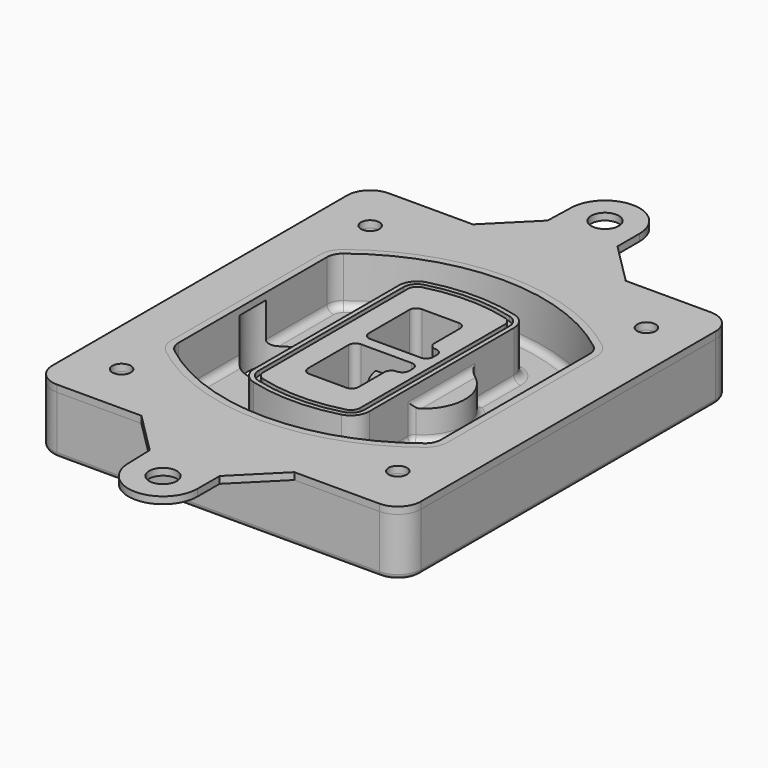
from build123d import *

# Parameters (mm, degrees)
F0_R      = 4
F1_DEPTH  = 25
F2_DEPTH  = 3
F3_DEPTH  = 18
F5_DEPTH  = 21
F6_DEPTH  = 2
F8_DEPTH  = 20
F9_DEPTH  = 16
F10_DEPTH = 25
F7_R      = 6
F7_R_2    = 4
F11_DEPTH = 6
F13_DEPTH = 9
F14_R     = 3
F15_R     = 2
F16_R     = 6
F16_R_2   = 4
F17_DEPTH = 3


with BuildPart() as f1:
    # F0 (on Top) → F1 (new body)
    with BuildSketch(Plane.XY):
        with BuildLine():
            ThreePointArc((-80, -80), (-77.0710678119, -87.0710678119), (-70, -90))
            Line((-70, -90), (70, -90))
            ThreePointArc((70, -90), (77.0710678119, -87.0710678119), (80, -80))
            Line((80, -80), (80, 80))
            ThreePointArc((80, 80), (77.0710678119, 87.0710678119), (70, 90))
            Line((70, 90), (-70, 90))
            ThreePointArc((-70, 90), (-77.0710678119, 87.0710678119), (-80, 80))
            Line((-80, 80), (-80, -80))
        make_face()
        with Locations((-60, -67.5)):
            Circle(F0_R, mode=Mode.SUBTRACT)
        with Locations((60, -67.5)):
            Circle(F0_R, mode=Mode.SUBTRACT)
        with Locations((-60, 67.5)):
            Circle(F0_R, mode=Mode.SUBTRACT)
        with BuildLine():
            ThreePointArc((-64, 40.2934422872), (-62.5820384798, 46.4328484224), (-58.6153846154, 51.3286200352))
            ThreePointArc((-58.6153846154, 51.3286200352), (0, 71.5), (58.6153846154, 51.3286200352))
            ThreePointArc((58.6153846154, 51.3286200352), (62.5820384798, 46.4328484224), (64, 40.2934422872))
            Line((64, 40.2934422872), (64, -40.2934422872))
            ThreePointArc((64, -40.2934422872), (62.5820384798, -46.4328484224), (58.6153846154, -51.3286200352))
            ThreePointArc((58.6153846154, -51.3286200352), (0, -71.5), (-58.6153846154, -51.3286200352))
            ThreePointArc((-58.6153846154, -51.3286200352), (-62.5820384798, -46.4328484224), (-64, -40.2934422872))
            Line((-64, -40.2934422872), (-64, 40.2934422872))
        make_face(mode=Mode.SUBTRACT)
        with Locations((60, 67.5)):
            Circle(F0_R, mode=Mode.SUBTRACT)
        with BuildLine():
            ThreePointArc((58.6153846154, 51.3286200352), (0, 71.5), (-58.6153846154, 51.3286200352))
            ThreePointArc((-58.6153846154, 51.3286200352), (-62.5820384798, 46.4328484224), (-64, 40.2934422872))
            Line((-64, 40.2934422872), (-64, -40.2934422872))
            ThreePointArc((-64, -40.2934422872), (-62.5820384798, -46.4328484224), (-58.6153846154, -51.3286200352))
            ThreePointArc((-58.6153846154, -51.3286200352), (0, -71.5), (58.6153846154, -51.3286200352))
            ThreePointArc((58.6153846154, -51.3286200352), (62.5820384798, -46.4328484224), (64, -40.2934422872))
            Line((64, -40.2934422872), (64, 40.2934422872))
            ThreePointArc((64, 40.2934422872), (62.5820384798, 46.4328484224), (58.6153846154, 51.3286200352))
        make_face()
        with BuildLine():
            Line((-60, -40.2934422872), (-60, 40.2934422872))
            ThreePointArc((-60, 40.2934422872), (-58.9871703427, 44.6787323838), (-56.1538461538, 48.1757121072))
            ThreePointArc((-56.1538461538, 48.1757121072), (0, 67.5), (56.1538461538, 48.1757121072))
            ThreePointArc((56.1538461538, 48.1757121072), (58.9871703427, 44.6787323838), (60, 40.2934422872))
            Line((60, 40.2934422872), (60, -40.2934422872))
            ThreePointArc((60, -40.2934422872), (58.9871703427, -44.6787323838), (56.1538461538, -48.1757121072))
            ThreePointArc((56.1538461538, -48.1757121072), (0, -67.5), (-56.1538461538, -48.1757121072))
            ThreePointArc((-56.1538461538, -48.1757121072), (-58.9871703427, -44.6787323838), (-60, -40.2934422872))
        make_face(mode=Mode.SUBTRACT)
        with BuildLine():
            ThreePointArc((-56.1538461538, 48.1757121072), (-58.9871703427, 44.6787323838), (-60, 40.2934422872))
            Line((-60, 40.2934422872), (-60, -40.2934422872))
            ThreePointArc((-60, -40.2934422872), (-58.9871703427, -44.6787323838), (-56.1538461538, -48.1757121072))
            ThreePointArc((-56.1538461538, -48.1757121072), (0, -67.5), (56.1538461538, -48.1757121072))
            ThreePointArc((56.1538461538, -48.1757121072), (58.9871703427, -44.6787323838), (60, -40.2934422872))
            Line((60, -40.2934422872), (60, 40.2934422872))
            ThreePointArc((60, 40.2934422872), (58.9871703427, 44.6787323838), (56.1538461538, 48.1757121072))
            ThreePointArc((56.1538461538, 48.1757121072), (0, 67.5), (-56.1538461538, 48.1757121072))
        make_face()
        with BuildLine():
            ThreePointArc((54.3076923077, 45.8110311612), (56.2910192399, 43.3631453548), (57, 40.2934422872))
            Line((57, 40.2934422872), (57, -40.2934422872))
            ThreePointArc((57, -40.2934422872), (56.2910192399, -43.3631453548), (54.3076923077, -45.8110311612))
            ThreePointArc((54.3076923077, -45.8110311612), (0, -64.5), (-54.3076923077, -45.8110311612))
            ThreePointArc((-54.3076923077, -45.8110311612), (-56.2910192399, -43.3631453548), (-57, -40.2934422872))
            Line((-57, -40.2934422872), (-57, 40.2934422872))
            ThreePointArc((-57, 40.2934422872), (-56.2910192399, 43.3631453548), (-54.3076923077, 45.8110311612))
            ThreePointArc((-54.3076923077, 45.8110311612), (0, 64.5), (54.3076923077, 45.8110311612))
        make_face(mode=Mode.SUBTRACT)
        with BuildLine():
            Line((57, -40.2934422872), (57, 40.2934422872))
            ThreePointArc((57, 40.2934422872), (56.2910192399, 43.3631453548), (54.3076923077, 45.8110311612))
            ThreePointArc((54.3076923077, 45.8110311612), (0, 64.5), (-54.3076923077, 45.8110311612))
            ThreePointArc((-54.3076923077, 45.8110311612), (-56.2910192399, 43.3631453548), (-57, 40.2934422872))
            Line((-57, 40.2934422872), (-57, -40.2934422872))
            ThreePointArc((-57, -40.2934422872), (-56.2910192399, -43.3631453548), (-54.3076923077, -45.8110311612))
            ThreePointArc((-54.3076923077, -45.8110311612), (0, -64.5), (54.3076923077, -45.8110311612))
            ThreePointArc((54.3076923077, -45.8110311612), (56.2910192399, -43.3631453548), (57, -40.2934422872))
        make_face()
    extrude(amount=-F1_DEPTH)

    # F0 (on Top) → F2 (join)
    with BuildSketch(Plane.XY):
        with BuildLine():
            ThreePointArc((-56.1538461538, 48.1757121072), (-58.9871703427, 44.6787323838), (-60, 40.2934422872))
            Line((-60, 40.2934422872), (-60, -40.2934422872))
            ThreePointArc((-60, -40.2934422872), (-58.9871703427, -44.6787323838), (-56.1538461538, -48.1757121072))
            ThreePointArc((-56.1538461538, -48.1757121072), (0, -67.5), (56.1538461538, -48.1757121072))
            ThreePointArc((56.1538461538, -48.1757121072), (58.9871703427, -44.6787323838), (60, -40.2934422872))
            Line((60, -40.2934422872), (60, 40.2934422872))
            ThreePointArc((60, 40.2934422872), (58.9871703427, 44.6787323838), (56.1538461538, 48.1757121072))
            ThreePointArc((56.1538461538, 48.1757121072), (0, 67.5), (-56.1538461538, 48.1757121072))
        make_face()
        with BuildLine():
            ThreePointArc((54.3076923077, 45.8110311612), (56.2910192399, 43.3631453548), (57, 40.2934422872))
            Line((57, 40.2934422872), (57, -40.2934422872))
            ThreePointArc((57, -40.2934422872), (56.2910192399, -43.3631453548), (54.3076923077, -45.8110311612))
            ThreePointArc((54.3076923077, -45.8110311612), (0, -64.5), (-54.3076923077, -45.8110311612))
            ThreePointArc((-54.3076923077, -45.8110311612), (-56.2910192399, -43.3631453548), (-57, -40.2934422872))
            Line((-57, -40.2934422872), (-57, 40.2934422872))
            ThreePointArc((-57, 40.2934422872), (-56.2910192399, 43.3631453548), (-54.3076923077, 45.8110311612))
            ThreePointArc((-54.3076923077, 45.8110311612), (0, 64.5), (54.3076923077, 45.8110311612))
        make_face(mode=Mode.SUBTRACT)
    extrude(amount=F2_DEPTH)

    # F0 (on Top) → F3 (cut)
    with BuildSketch(Plane.XY):
        with BuildLine():
            Line((57, -40.2934422872), (57, 40.2934422872))
            ThreePointArc((57, 40.2934422872), (56.2910192399, 43.3631453548), (54.3076923077, 45.8110311612))
            ThreePointArc((54.3076923077, 45.8110311612), (0, 64.5), (-54.3076923077, 45.8110311612))
            ThreePointArc((-54.3076923077, 45.8110311612), (-56.2910192399, 43.3631453548), (-57, 40.2934422872))
            Line((-57, 40.2934422872), (-57, -40.2934422872))
            ThreePointArc((-57, -40.2934422872), (-56.2910192399, -43.3631453548), (-54.3076923077, -45.8110311612))
            ThreePointArc((-54.3076923077, -45.8110311612), (0, -64.5), (54.3076923077, -45.8110311612))
            ThreePointArc((54.3076923077, -45.8110311612), (56.2910192399, -43.3631453548), (57, -40.2934422872))
        make_face()
    extrude(amount=-F3_DEPTH, mode=Mode.SUBTRACT)

    # F4 (on face) → F5 (join, through all)
    with BuildSketch(Plane.XY.offset(3)):
        with BuildLine():
            ThreePointArc((-25, -39.2465276821), (-23.3511545998, -44.1109737193), (-19.0842911877, -46.9702398883))
            ThreePointArc((-19.0842911877, -46.9702398883), (0, -49.5), (19.0842911877, -46.9702398883))
            ThreePointArc((19.0842911877, -46.9702398883), (23.3511545998, -44.1109737193), (25, -39.2465276821))
            Line((25, -39.2465276821), (25, 39.2465276821))
            ThreePointArc((25, 39.2465276821), (23.3511545998, 44.1109737193), (19.0842911877, 46.9702398883))
            ThreePointArc((19.0842911877, 46.9702398883), (0, 49.5), (-19.0842911877, 46.9702398883))
            ThreePointArc((-19.0842911877, 46.9702398883), (-23.3511545998, 44.1109737193), (-25, 39.2465276821))
            Line((-25, 39.2465276821), (-25, -39.2465276821))
        make_face()
        with BuildLine():
            ThreePointArc((18.5632183908, 45.0393118368), (21.7633659499, 42.89486221), (23, 39.2465276821))
            Line((23, 39.2465276821), (23, -39.2465276821))
            ThreePointArc((23, -39.2465276821), (21.7633659499, -42.89486221), (18.5632183908, -45.0393118368))
            ThreePointArc((18.5632183908, -45.0393118368), (0, -47.5), (-18.5632183908, -45.0393118368))
            ThreePointArc((-18.5632183908, -45.0393118368), (-21.7633659499, -42.89486221), (-23, -39.2465276821))
            Line((-23, -39.2465276821), (-23, 39.2465276821))
            ThreePointArc((-23, 39.2465276821), (-21.7633659499, 42.89486221), (-18.5632183908, 45.0393118368))
            ThreePointArc((-18.5632183908, 45.0393118368), (0, 47.5), (18.5632183908, 45.0393118368))
        make_face(mode=Mode.SUBTRACT)
        with BuildLine():
            Line((23, -39.2465276821), (23, 39.2465276821))
            ThreePointArc((23, 39.2465276821), (21.7633659499, 42.89486221), (18.5632183908, 45.0393118368))
            ThreePointArc((18.5632183908, 45.0393118368), (0, 47.5), (-18.5632183908, 45.0393118368))
            ThreePointArc((-18.5632183908, 45.0393118368), (-21.7633659499, 42.89486221), (-23, 39.2465276821))
            Line((-23, 39.2465276821), (-23, -39.2465276821))
            ThreePointArc((-23, -39.2465276821), (-21.7633659499, -42.89486221), (-18.5632183908, -45.0393118368))
            ThreePointArc((-18.5632183908, -45.0393118368), (0, -47.5), (18.5632183908, -45.0393118368))
            ThreePointArc((18.5632183908, -45.0393118368), (21.7633659499, -42.89486221), (23, -39.2465276821))
        make_face()
        with BuildLine():
            ThreePointArc((18.0421455939, 43.1083837852), (20.1755772999, 41.6787507007), (21, 39.2465276821))
            Line((21, 39.2465276821), (21, -39.2465276821))
            ThreePointArc((21, -39.2465276821), (20.1755772999, -41.6787507007), (18.0421455939, -43.1083837852))
            ThreePointArc((18.0421455939, -43.1083837852), (0, -45.5), (-18.0421455939, -43.1083837852))
            ThreePointArc((-18.0421455939, -43.1083837852), (-20.1755772999, -41.6787507007), (-21, -39.2465276821))
            Line((-21, -39.2465276821), (-21, 39.2465276821))
            ThreePointArc((-21, 39.2465276821), (-20.1755772999, 41.6787507007), (-18.0421455939, 43.1083837852))
            ThreePointArc((-18.0421455939, 43.1083837852), (0, 45.5), (18.0421455939, 43.1083837852))
        make_face(mode=Mode.SUBTRACT)
        with BuildLine():
            Line((21, -39.2465276821), (21, 39.2465276821))
            ThreePointArc((21, 39.2465276821), (20.1755772999, 41.6787507007), (18.0421455939, 43.1083837852))
            ThreePointArc((18.0421455939, 43.1083837852), (0, 45.5), (-18.0421455939, 43.1083837852))
            ThreePointArc((-18.0421455939, 43.1083837852), (-20.1755772999, 41.6787507007), (-21, 39.2465276821))
            Line((-21, 39.2465276821), (-21, -39.2465276821))
            ThreePointArc((-21, -39.2465276821), (-20.1755772999, -41.6787507007), (-18.0421455939, -43.1083837852))
            ThreePointArc((-18.0421455939, -43.1083837852), (0, -45.5), (18.0421455939, -43.1083837852))
            ThreePointArc((18.0421455939, -43.1083837852), (20.1755772999, -41.6787507007), (21, -39.2465276821))
        make_face()
        with BuildLine():
            Line((-8, -2.5), (14, -2.5))
            ThreePointArc((14, -2.5), (16.1213203436, -3.3786796564), (17, -5.5))
            Line((17, -5.5), (17, -7.5))
            ThreePointArc((17, -7.5), (16.1213203436, -9.6213203436), (14, -10.5))
            ThreePointArc((14, -10.5), (11.8786796564, -11.3786796564), (11, -13.5))
            Line((11, -13.5), (11, -27.5))
            ThreePointArc((11, -27.5), (10.1213203436, -29.6213203436), (8, -30.5))
            Line((8, -30.5), (-8, -30.5))
            ThreePointArc((-8, -30.5), (-10.1213203436, -29.6213203436), (-11, -27.5))
            Line((-11, -27.5), (-11, -5.5))
            ThreePointArc((-11, -5.5), (-10.1213203436, -3.3786796564), (-8, -2.5))
        make_face(mode=Mode.SUBTRACT)
        with BuildLine():
            ThreePointArc((-8, 2.5), (-10.1213203436, 3.3786796564), (-11, 5.5))
            Line((-11, 5.5), (-11, 27.5))
            ThreePointArc((-11, 27.5), (-10.1213203436, 29.6213203436), (-8, 30.5))
            Line((-8, 30.5), (8, 30.5))
            ThreePointArc((8, 30.5), (10.1213203436, 29.6213203436), (11, 27.5))
            Line((11, 27.5), (11, 13.5))
            ThreePointArc((11, 13.5), (11.8786796564, 11.3786796564), (14, 10.5))
            ThreePointArc((14, 10.5), (16.1213203436, 9.6213203436), (17, 7.5))
            Line((17, 7.5), (17, 5.5))
            ThreePointArc((17, 5.5), (16.1213203436, 3.3786796564), (14, 2.5))
            Line((14, 2.5), (-8, 2.5))
        make_face(mode=Mode.SUBTRACT)
    extrude(amount=-F5_DEPTH)

    # F4 (on face) → F6 (cut)
    with BuildSketch(Plane.XY.offset(3)):
        with BuildLine():
            Line((23, -39.2465276821), (23, 39.2465276821))
            ThreePointArc((23, 39.2465276821), (21.7633659499, 42.89486221), (18.5632183908, 45.0393118368))
            ThreePointArc((18.5632183908, 45.0393118368), (0, 47.5), (-18.5632183908, 45.0393118368))
            ThreePointArc((-18.5632183908, 45.0393118368), (-21.7633659499, 42.89486221), (-23, 39.2465276821))
            Line((-23, 39.2465276821), (-23, -39.2465276821))
            ThreePointArc((-23, -39.2465276821), (-21.7633659499, -42.89486221), (-18.5632183908, -45.0393118368))
            ThreePointArc((-18.5632183908, -45.0393118368), (0, -47.5), (18.5632183908, -45.0393118368))
            ThreePointArc((18.5632183908, -45.0393118368), (21.7633659499, -42.89486221), (23, -39.2465276821))
        make_face()
        with BuildLine():
            ThreePointArc((18.0421455939, 43.1083837852), (20.1755772999, 41.6787507007), (21, 39.2465276821))
            Line((21, 39.2465276821), (21, -39.2465276821))
            ThreePointArc((21, -39.2465276821), (20.1755772999, -41.6787507007), (18.0421455939, -43.1083837852))
            ThreePointArc((18.0421455939, -43.1083837852), (0, -45.5), (-18.0421455939, -43.1083837852))
            ThreePointArc((-18.0421455939, -43.1083837852), (-20.1755772999, -41.6787507007), (-21, -39.2465276821))
            Line((-21, -39.2465276821), (-21, 39.2465276821))
            ThreePointArc((-21, 39.2465276821), (-20.1755772999, 41.6787507007), (-18.0421455939, 43.1083837852))
            ThreePointArc((-18.0421455939, 43.1083837852), (0, 45.5), (18.0421455939, 43.1083837852))
        make_face(mode=Mode.SUBTRACT)
    extrude(amount=-F6_DEPTH, mode=Mode.SUBTRACT)

    # F7 (on face) → F8 (join)
    with BuildSketch(Plane(origin=(0, 0, -25), x_dir=(1, 0, 0), z_dir=(0, 0, -1))):
        with BuildLine():
            ThreePointArc((3.28842436, 0), (16.7567035675, 13.4682792075), (30.224982775, 0))
            Line((30.224982775, 0), (35.224982775, 0))
            ThreePointArc((35.224982775, 0), (16.7567035675, 18.4682792075), (-1.71157564, 0))
            Line((-1.71157564, 0), (3.28842436, 0))
        make_face()
        with BuildLine():
            Line((3.28842436, 0), (30.224982775, 0))
            ThreePointArc((30.224982775, 0), (16.7567035675, 13.4682792075), (3.28842436, 0))
        make_face()
        with BuildLine():
            ThreePointArc((3.28842436, 0), (16.7567035675, -13.4682792075), (30.224982775, 0))
            Line((30.224982775, 0), (3.28842436, 0))
        make_face()
        with BuildLine():
            Line((35.224982775, 0), (30.224982775, 0))
            ThreePointArc((30.224982775, 0), (16.7567035675, -13.4682792075), (3.28842436, 0))
            Line((3.28842436, 0), (-1.71157564, 0))
            ThreePointArc((-1.71157564, 0), (16.7567035675, -18.4682792075), (35.224982775, 0))
        make_face()
    extrude(amount=-F8_DEPTH)

    # F7 (on face) → F9 (cut)
    with BuildSketch(Plane(origin=(0, 0, -25), x_dir=(1, 0, 0), z_dir=(0, 0, -1))):
        with BuildLine():
            Line((3.28842436, 0), (30.224982775, 0))
            ThreePointArc((30.224982775, 0), (16.7567035675, 13.4682792075), (3.28842436, 0))
        make_face()
        with BuildLine():
            ThreePointArc((3.28842436, 0), (16.7567035675, -13.4682792075), (30.224982775, 0))
            Line((30.224982775, 0), (3.28842436, 0))
        make_face()
    extrude(amount=-F9_DEPTH, mode=Mode.SUBTRACT)

    # F7 (on face) → F10 (cut)
    with BuildSketch(Plane(origin=(0, 0, -25), x_dir=(1, 0, 0), z_dir=(0, 0, -1))):
        with BuildLine():
            Line((-59.0318229325, 0), (-32.0952645175, 0))
            ThreePointArc((-32.0952645175, 0), (-45.563543725, 13.4682792075), (-59.0318229325, 0))
        make_face()
        with BuildLine():
            ThreePointArc((-59.0318229325, 0), (-45.563543725, -13.4682792075), (-32.0952645175, 0))
            Line((-32.0952645175, 0), (-59.0318229325, 0))
        make_face()
    extrude(amount=-F10_DEPTH, mode=Mode.SUBTRACT)

    # F7 (on face) → F11 (cut)
    with BuildSketch(Plane(origin=(0, 0, -25), x_dir=(1, 0, 0), z_dir=(0, 0, -1))):
        with Locations((60, -67.5)):
            Circle(F7_R)
        with Locations((60, -67.5)):
            Circle(F7_R_2, mode=Mode.SUBTRACT)
        with Locations((60, -67.5)):
            Circle(F7_R)
        with Locations((60, -67.5)):
            Circle(F7_R_2, mode=Mode.SUBTRACT)
        with Locations((-60, -67.5)):
            Circle(F7_R)
        with Locations((-60, -67.5)):
            Circle(F7_R_2, mode=Mode.SUBTRACT)
        with Locations((-60, -67.5)):
            Circle(F7_R)
        with Locations((-60, -67.5)):
            Circle(F7_R_2, mode=Mode.SUBTRACT)
        with Locations((-60, 67.5)):
            Circle(F7_R)
        with Locations((-60, 67.5)):
            Circle(F7_R_2, mode=Mode.SUBTRACT)
        with Locations((-60, 67.5)):
            Circle(F7_R)
        with Locations((-60, 67.5)):
            Circle(F7_R_2, mode=Mode.SUBTRACT)
        with Locations((60, 67.5)):
            Circle(F7_R)
        with Locations((60, 67.5)):
            Circle(F7_R_2, mode=Mode.SUBTRACT)
        with Locations((60, 67.5)):
            Circle(F7_R)
        with Locations((60, 67.5)):
            Circle(F7_R_2, mode=Mode.SUBTRACT)
    extrude(amount=-F11_DEPTH, mode=Mode.SUBTRACT)

    # F12 (on face) → F13 (cut, through all)
    with BuildSketch(Plane(origin=(0, 0, -9), x_dir=(1, 0, 0), z_dir=(0, 0, -1))):
        with BuildLine():
            Line((11, 13.5), (11, 17.5481537753))
            ThreePointArc((11, 17.5481537753), (2.5696536419, 11.8239143813), (-1.5415842455, 2.5))
            Line((-1.5415842455, 2.5), (3.5224848595, 2.5))
            ThreePointArc((3.5224848595, 2.5), (6.1857188154, 8.3455872281), (11.2536447004, 12.2927168648))
            ThreePointArc((11.2536447004, 12.2927168648), (11.0640958889, 12.8831798879), (11, 13.5))
        make_face()
        with BuildLine():
            ThreePointArc((11.2536447004, -12.2927168648), (6.1857188154, -8.3455872281), (3.5224848595, -2.5))
            Line((3.5224848595, -2.5), (-1.5415842455, -2.5))
            ThreePointArc((-1.5415842455, -2.5), (2.5696536419, -11.8239143813), (11, -17.5481537753))
            Line((11, -17.5481537753), (11, -13.5))
            ThreePointArc((11, -13.5), (11.0640958889, -12.8831798879), (11.2536447004, -12.2927168648))
        make_face()
        with BuildLine():
            ThreePointArc((11.2536447004, 12.2927168648), (6.1857188154, 8.3455872281), (3.5224848595, 2.5))
            Line((3.5224848595, 2.5), (14, 2.5))
            ThreePointArc((14, 2.5), (16.1213203436, 3.3786796564), (17, 5.5))
            Line((17, 5.5), (17, 7.5))
            ThreePointArc((17, 7.5), (16.1213203436, 9.6213203436), (14, 10.5))
            ThreePointArc((14, 10.5), (12.3601599782, 10.9878446101), (11.2536447004, 12.2927168648))
        make_face()
        with BuildLine():
            Line((14, -2.5), (3.5224848595, -2.5))
            ThreePointArc((3.5224848595, -2.5), (6.1857188154, -8.3455872281), (11.2536447004, -12.2927168648))
            ThreePointArc((11.2536447004, -12.2927168648), (12.3601599782, -10.9878446101), (14, -10.5))
            ThreePointArc((14, -10.5), (16.1213203436, -9.6213203436), (17, -7.5))
            Line((17, -7.5), (17, -5.5))
            ThreePointArc((17, -5.5), (16.1213203436, -3.3786796564), (14, -2.5))
        make_face()
    extrude(amount=F13_DEPTH, mode=Mode.SUBTRACT)

    # F14
    f14_edges = [f1.edges().sort_by_distance(p)[0] for p in [
        (-57, -23.703476, -18),
        (-57, 23.703476, -18),
        (25, 0, -5),
        (25, 16.526506, -11.5),
        (25, -16.526506, -11.5),
        (25, -27.886517, -18),
        (35.224983, 0, -18),
    ]]
    fillet(f14_edges, radius=F14_R)

    # F15
    f15_edges = [f1.edges().sort_by_distance(p)[0] for p in [
        (0, -90, -25),
    ]]
    fillet(f15_edges, radius=F15_R)


with BuildPart() as f17:
    # F16 (on face) → F17 (new body, through all)
    with BuildSketch(Plane.XY):
        with BuildLine():
            Line((15.0201574634, 108), (14.9999788817, 120.0251703958))
            ThreePointArc((14.9999788817, 120.0251703958), (-0.0956580827, 134.9996949813), (-14.9990798479, 119.8338563427))
            Line((-14.9990798479, 119.8338563427), (-15.3678504154, 108))
            Line((-15.3678504154, 108), (-33.3678504154, 90))
            Line((-33.3678504154, 90), (33.0201574634, 90))
            Line((33.0201574634, 90), (15.0201574634, 108))
        make_face()
        with Locations((0, 120)):
            Circle(F16_R, mode=Mode.SUBTRACT)
        with BuildLine():
            Line((15.0201574634, -108), (33.0201574634, -90))
            Line((33.0201574634, -90), (-33.3678504154, -90))
            Line((-33.3678504154, -90), (-15.3678504154, -108))
            Line((-15.3678504154, -108), (-14.9990798479, -119.8338563427))
            ThreePointArc((-14.9990798479, -119.8338563427), (-0.0956580827, -134.9996949813), (14.9999788817, -120.0251703958))
            Line((14.9999788817, -120.0251703958), (15.0201574634, -108))
        make_face()
        with Locations((0, -120)):
            Circle(F16_R, mode=Mode.SUBTRACT)
        with BuildLine():
            Line((70, 90), (33.0201574634, 90))
            Line((33.0201574634, 90), (-33.3678504154, 90))
            Line((-33.3678504154, 90), (-70, 90))
            ThreePointArc((-70, 90), (-77.0710678119, 87.0710678119), (-80, 80))
            Line((-80, 80), (-80, -80))
            ThreePointArc((-80, -80), (-77.0710678119, -87.0710678119), (-70, -90))
            Line((-70, -90), (-33.3678504154, -90))
            Line((-33.3678504154, -90), (33.0201574634, -90))
            Line((33.0201574634, -90), (70, -90))
            ThreePointArc((70, -90), (77.0710678119, -87.0710678119), (80, -80))
            Line((80, -80), (80, 80))
            ThreePointArc((80, 80), (77.0710678119, 87.0710678119), (70, 90))
        make_face()
        with Locations((-60, -67.5)):
            Circle(F16_R_2, mode=Mode.SUBTRACT)
        with Locations((60, -67.5)):
            Circle(F16_R_2, mode=Mode.SUBTRACT)
        with BuildLine():
            ThreePointArc((-60, 40.2934422872), (-58.9871703427, 44.6787323838), (-56.1538461538, 48.1757121072))
            ThreePointArc((-56.1538461538, 48.1757121072), (0, 67.5), (56.1538461538, 48.1757121072))
            ThreePointArc((56.1538461538, 48.1757121072), (58.9871703427, 44.6787323838), (60, 40.2934422872))
            Line((60, 40.2934422872), (60, -40.2934422872))
            ThreePointArc((60, -40.2934422872), (58.9871703427, -44.6787323838), (56.1538461538, -48.1757121072))
            ThreePointArc((56.1538461538, -48.1757121072), (0, -67.5), (-56.1538461538, -48.1757121072))
            ThreePointArc((-56.1538461538, -48.1757121072), (-58.9871703427, -44.6787323838), (-60, -40.2934422872))
            Line((-60, -40.2934422872), (-60, 40.2934422872))
        make_face(mode=Mode.SUBTRACT)
        with Locations((-60, 67.5)):
            Circle(F16_R_2, mode=Mode.SUBTRACT)
        with Locations((60, 67.5)):
            Circle(F16_R_2, mode=Mode.SUBTRACT)
    extrude(amount=F17_DEPTH)


solid = Compound([f1.part, f17.part])
